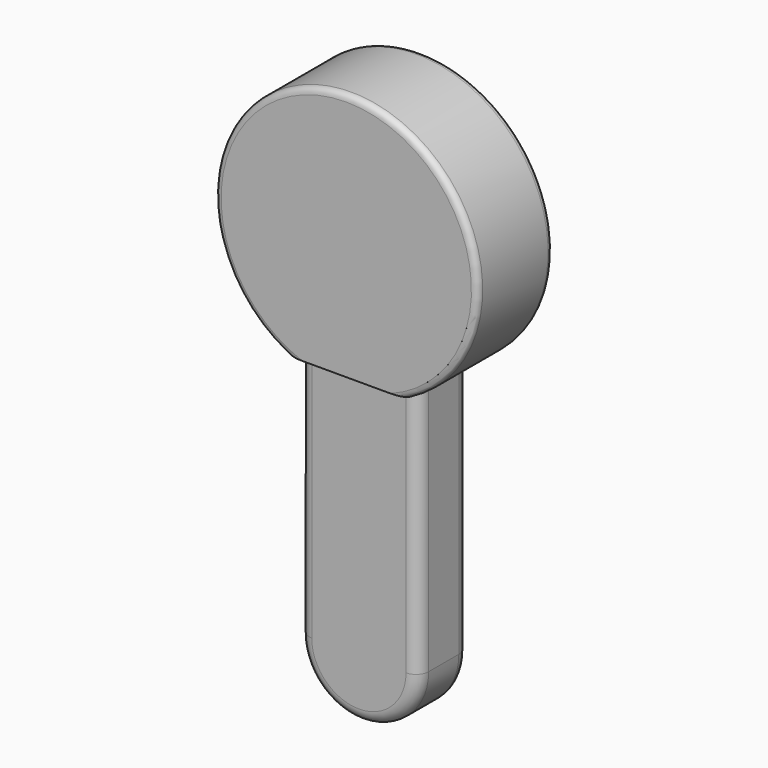
from build123d import *

# Parameters (mm, degrees)
F1_DEPTH = 19.05
F2_R     = 2.54
F3_DEPTH = 12.7
F4_R     = 5.08


with BuildPart() as f1:
    # F0 (on Front) → F1 (new body, symmetric)
    with BuildSketch(Plane.XZ):
        with BuildLine():
            Line((-24.119121, -47.33848), (24.140879, -47.327388))
            ThreePointArc((24.140879, -47.327388), (-0.012211, 53.128745), (-24.119121, -47.33848))
        make_face()
    extrude(amount=F1_DEPTH, both=True)

    # F2
    f2_edges = [f1.edges().sort_by_distance(p)[0] for p in [
        (-0.012211, -19.05, 53.128745),
        (-0.012211, 19.05, 53.128745),
    ]]
    fillet(f2_edges, radius=F2_R)

    # F0 (on Front) → F3 (join, symmetric)
    with BuildSketch(Plane.XZ):
        with BuildLine():
            Line((24.140879, -148.927388), (24.140879, -47.327388))
            Line((24.140879, -47.327388), (-24.119121, -47.33848))
            Line((-24.119121, -47.33848), (-24.119121, -148.927388))
            ThreePointArc((-24.119121, -148.927388), (0.010879, -173.057388), (24.140879, -148.927388))
        make_face()
    extrude(amount=F3_DEPTH, both=True)

    # F4
    f4_edges = [f1.edges().sort_by_distance(p)[0] for p in [
        (-24.119121, 12.7, -98.132934),
        (-24.119121, -12.7, -98.132934),
        (24.140879, -12.7, -98.127388),
        (24.140879, 12.7, -98.127388),
    ]]
    fillet(f4_edges, radius=F4_R)


solid = f1.part
